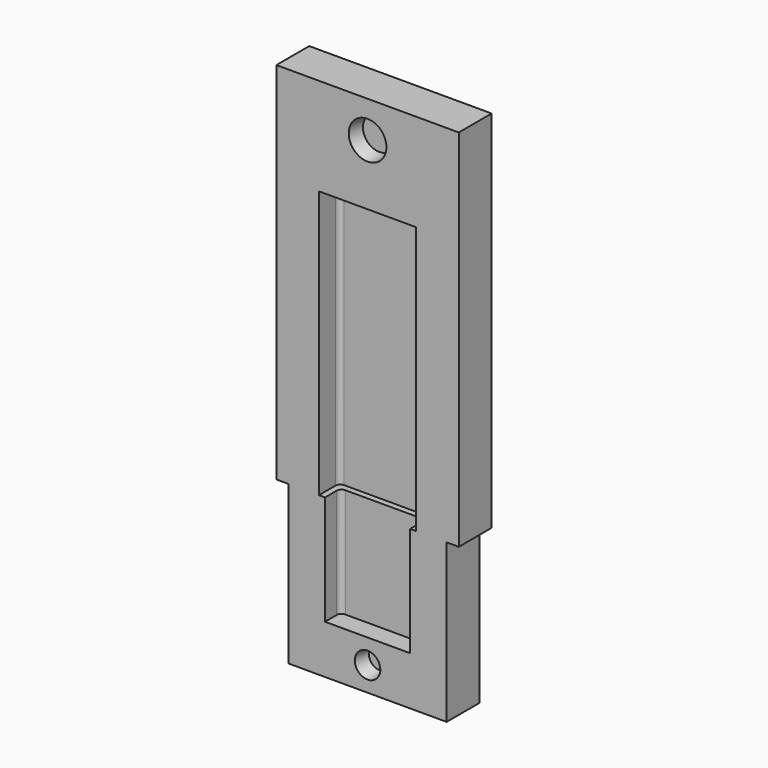
from build123d import *

# Parameters (mm, degrees)
F0_W       = 65
F0_H       = 46
F1_DEPTH   = 65
F2_W       = 35
F2_H       = 16
F3_DEPTH   = 45
F4_R       = 2
F5_W       = 75
F5_H       = 53.7899285555
F6_DEPTH   = 150
F7_W       = 40
F7_H       = 21
F8_DEPTH   = 110
F9_R       = 2
F10_R      = 2
F11_R      = 2
F12_W      = 150.7326364517
F12_H      = 343.7213376164
F6_FACE1_W = 75
F6_FACE1_H = 150
F1_FACE1_W = 65
F1_FACE1_H = 65
F13_DEPTH  = 26.8959642777
F14_R      = 7.75
F14_R_2    = 5.25
F15_DEPTH  = 6
F15_TAPER  = 10
F16_W      = 143.152281642
F16_H      = 267.6325216889
F17_DEPTH  = 10


with BuildPart() as f1:
    # F0 (on Top) → F1 (new body)
    with BuildSketch(Plane.XY):
        Rectangle(F0_W, F0_H)
    extrude(amount=F1_DEPTH)

    # F2 (on face) → F3 (cut)
    with BuildSketch(Plane.XY.offset(65)):
        Rectangle(F2_W, F2_H)
    extrude(amount=-F3_DEPTH, mode=Mode.SUBTRACT)

    # F4
    f4_edges = [f1.edges().sort_by_distance(p)[0] for p in [
        (-17.5, -8, 42.5),
        (-17.5, 8, 42.5),
        (17.5, -8, 42.5),
        (17.5, 8, 42.5),
    ]]
    fillet(f4_edges, radius=F4_R)

    # F5 (on face) → F6 (join)
    with BuildSketch(Plane.XY.offset(65)):
        Rectangle(F5_W, F5_H)
    extrude(amount=F6_DEPTH)

    # F7 (on face) → F8 (cut)
    with BuildSketch(Plane(origin=(0, 0, 65), x_dir=(1, 0, 0), z_dir=(0, 0, -1))):
        Rectangle(F7_W, F7_H)
    extrude(amount=-F8_DEPTH, mode=Mode.SUBTRACT)

    # F9
    f9_edges = [f1.edges().sort_by_distance(p)[0] for p in [
        (-20, -10.5, 120),
    ]]
    fillet(f9_edges, radius=F9_R)

    # F10
    f10_edges = [f1.edges().sort_by_distance(p)[0] for p in [
        (-20, 10.5, 120),
    ]]
    fillet(f10_edges, radius=F10_R)

    # F11
    f11_edges = [f1.edges().sort_by_distance(p)[0] for p in [
        (20, -10.5, 120),
        (20, 10.5, 120),
    ]]
    fillet(f11_edges, radius=F11_R)

    # F12 (on Front) + F6_face1 (on face) + F1_face1 (on face) → F13 (cut, through all)
    with BuildSketch(Plane.XZ):
        with Locations((0, 126.5255063772)):
            Rectangle(F12_W, F12_H)
    with BuildSketch(Plane(origin=(0, -26.8949642777, 140), x_dir=(1, 0, 0), z_dir=(0, -1, 0))):
        Rectangle(F6_FACE1_W, F6_FACE1_H)
    with BuildSketch(Plane(origin=(0, -23, 32.5), x_dir=(1, 0, 0), z_dir=(0, -1, 0))):
        Rectangle(F1_FACE1_W, F1_FACE1_H)
    extrude(amount=F13_DEPTH, mode=Mode.SUBTRACT)

    # F14 (on face) → F15 (cut)
    with BuildSketch(Plane.XZ):
        with Locations((0, 200)):
            Circle(F14_R)
        with Locations((0, 10)):
            Circle(F14_R_2)
    extrude(amount=-F15_DEPTH, taper=F15_TAPER, mode=Mode.SUBTRACT)

    # F16 (on face) → F17 (cut)
    with BuildSketch(Plane(origin=(0, 26.8949642777, 0), x_dir=(-1, 0, 0), z_dir=(0, 1, 0))):
        with Locations((18.2788968086, 90.5453972518)):
            Rectangle(F16_W, F16_H)
    extrude(amount=-F17_DEPTH, mode=Mode.SUBTRACT)


solid = f1.part
